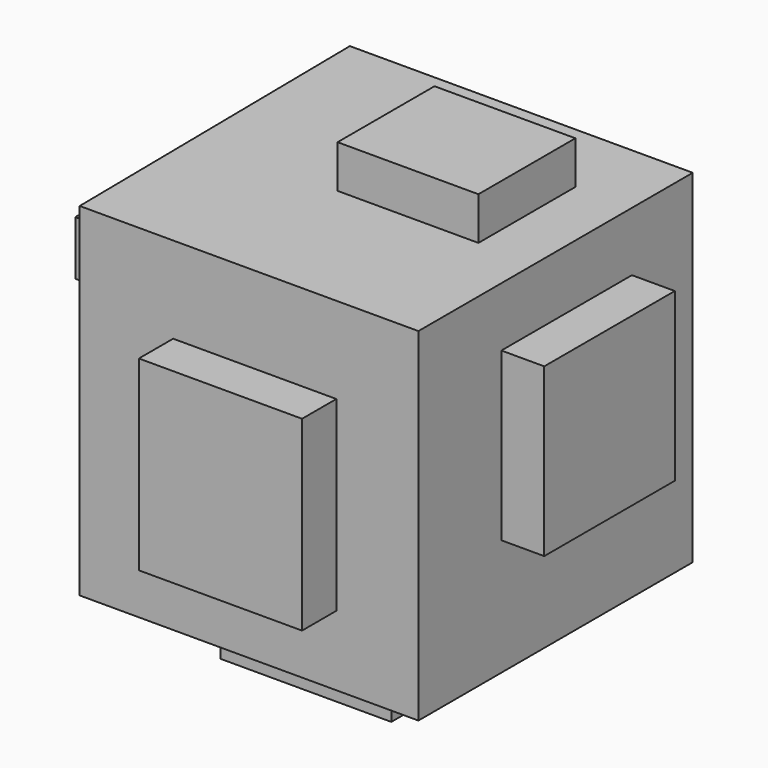
from build123d import *

# Parameters (mm, degrees)
F1_DEPTH  = 25.4
F4_DEPTH  = 3.175
F5_W      = 6.0439207591
F5_H      = 4.6048928052
F6_DEPTH  = 3.175
F7_W      = 8.0585589167
F7_H      = 7.1951448917
F7_H_2    = 9.2097851448
F8_DEPTH  = 3.175
F9_W      = 12.0878436137
F9_H      = 5.468309857
F10_DEPTH = 3.175
F11_W     = 5.6126299314
F11_H     = 4.0292795748
F11_W_2   = 1.726959832
F12_DEPTH = 3.175
F13_W     = 12.3756490648
F13_H     = 7.7707557939
F14_DEPTH = 3.175
F15_W     = 10.4352370836
F15_H     = 8.9767808095
F16_DEPTH = 3.175
F17_DEPTH = 3.175
F18_DEPTH = 3.175
F19_DEPTH = 3.175
F20_DEPTH = 3.175
F21_DEPTH = 3.175


with BuildPart() as f1:
    # F0 (on Top) → F1 (new body)
    with BuildSketch(Plane.XY):
        Polygon((9.2463303961, 5.6304850562), (-16.1536696039, 5.6304850562), (-15.8439135919, -19.7695149438), (9.2463303961, -19.7695149438), align=None)
    extrude(amount=F1_DEPTH)

    # F2 (on face) → F4 (cut)
    with BuildSketch(Plane.XY.offset(25.4)):
        Polygon((-5.1805032417, 0), (-5.1805032417, -8.63417238), (4.8926984891, -8.9219780639), (4.8926984891, 0), align=None)
    extrude(amount=-F4_DEPTH, mode=Mode.SUBTRACT)

    # F5 (on face) → F6 (cut)
    with BuildSketch(Plane.YZ.offset(9.2463303961)):
        with Locations((-9.0658811387, 18.7073750421)):
            Rectangle(F5_W, F5_H)
        Polygon((-6.0439207591, 16.4049286395), (-12.0878415182, 16.4049286395), (-12.0878415182, 8.63417238), (0, 8.63417238), (0, 16.4049286395), align=None)
        with Locations((-3.0219603796, 18.7073750421)):
            Rectangle(F5_W, F5_H)
    extrude(amount=-F6_DEPTH, mode=Mode.SUBTRACT)

    # F7 (on face) → F8 (cut)
    with BuildSketch(Plane(origin=(0, 5.6304850562, 0), x_dir=(-1, 0, 0), z_dir=(0, 1, 0))):
        with Locations((7.7707554447, 19.4268897176)):
            Rectangle(F7_W, F7_H)
        with Locations((7.7707554447, 11.2244246993)):
            Rectangle(F7_W, F7_H_2)
    extrude(amount=-F8_DEPTH, mode=Mode.SUBTRACT)

    # F9 (on face) → F10 (cut)
    with BuildSketch(Plane.XZ.offset(19.7695149438)):
        with Locations((-2.8780571884, 16.2610257976)):
            Rectangle(F9_W, F9_H)
        Polygon((3.1658646185, 13.5268708691), (-8.9219789952, 13.5268708691), (-8.9219789952, 5.1805032417), (-7.1951430291, 5.1805032417), (3.1658646185, 5.1805032417), align=None)
    extrude(amount=-F10_DEPTH, mode=Mode.SUBTRACT)

    # F11 (on face) → F12 (cut)
    with BuildSketch(Plane(origin=(-16.08261335, -0.1961293769, 0), x_dir=(0.0121942118, -0.9999256478, 0), z_dir=(-0.9999256478, -0.0121942118, 0))):
        Polygon((2.9699560255, 18.131762743), (2.9699560255, 11.8000358343), (14.1952158883, 10.9366187826), (14.1952158883, 18.131762743), (8.5825859569, 18.131762743), align=None)
        with Locations((5.7762709912, 20.1464025304)):
            Rectangle(F11_W, F11_H)
        with Locations((11.3889009226, 20.1464025304)):
            Rectangle(F11_W, F11_H)
        with Locations((15.0586958043, 20.1464025304)):
            Rectangle(F11_W_2, F11_H)
    extrude(amount=-F12_DEPTH, mode=Mode.SUBTRACT)

    # F13 (on face) → F14 (cut)
    with BuildSketch(Plane(origin=(0, 0, 0), x_dir=(1, 0, 0), z_dir=(0, 0, -1))):
        Polygon((-8.3463676274, 16.1171220243), (-8.3463676274, 7.7707557939), (4.0292814374, 7.7707557939), (4.3170871213, 7.7707557939), (4.3170871213, 16.1171220243), align=None)
        with Locations((-2.158543095, 3.8853778969)):
            Rectangle(F13_W, F13_H)
    extrude(amount=-F14_DEPTH, mode=Mode.SUBTRACT)


with BuildPart() as f16:
    # F15 (on face) → F16 (new body)
    with BuildSketch(Plane.XY.offset(25.4)):
        with Locations((-0.1602803823, -4.4883904047)):
            Rectangle(F15_W, F15_H)
    extrude(amount=F16_DEPTH)


with BuildPart() as f17:
    # F5 (on face) → F17 (new body)
    with BuildSketch(Plane.YZ.offset(9.2463303961)):
        with Locations((-9.0658811387, 18.7073750421)):
            Rectangle(F5_W, F5_H)
        Polygon((-6.0439207591, 16.4049286395), (-12.0878415182, 16.4049286395), (-12.0878415182, 8.63417238), (0, 8.63417238), (0, 16.4049286395), align=None)
        with Locations((-3.0219603796, 18.7073750421)):
            Rectangle(F5_W, F5_H)
    extrude(amount=F17_DEPTH)


with BuildPart() as f18:
    # F7 (on face) → F18 (new body)
    with BuildSketch(Plane(origin=(0, 5.6304850562, 0), x_dir=(-1, 0, 0), z_dir=(0, 1, 0))):
        with Locations((7.7707554447, 19.4268897176)):
            Rectangle(F7_W, F7_H)
        with Locations((7.7707554447, 11.2244246993)):
            Rectangle(F7_W, F7_H_2)
    extrude(amount=F18_DEPTH)


with BuildPart() as f19:
    # F11 (on face) → F19 (new body)
    with BuildSketch(Plane(origin=(-16.08261335, -0.1961293769, 0), x_dir=(0.0121942118, -0.9999256478, 0), z_dir=(-0.9999256478, -0.0121942118, 0))):
        Polygon((2.9699560255, 18.131762743), (2.9699560255, 11.8000358343), (14.1952158883, 10.9366187826), (14.1952158883, 18.131762743), (8.5825859569, 18.131762743), align=None)
        with Locations((5.7762709912, 20.1464025304)):
            Rectangle(F11_W, F11_H)
        with Locations((11.3889009226, 20.1464025304)):
            Rectangle(F11_W, F11_H)
        with Locations((15.0586958043, 20.1464025304)):
            Rectangle(F11_W_2, F11_H)
    extrude(amount=F19_DEPTH)


with BuildPart() as f20:
    # F9 (on face) → F20 (new body)
    with BuildSketch(Plane.XZ.offset(19.7695149438)):
        with Locations((-2.8780571884, 16.2610257976)):
            Rectangle(F9_W, F9_H)
        Polygon((3.1658646185, 13.5268708691), (-8.9219789952, 13.5268708691), (-8.9219789952, 5.1805032417), (-7.1951430291, 5.1805032417), (3.1658646185, 5.1805032417), align=None)
    extrude(amount=F20_DEPTH)


with BuildPart() as f21:
    # F13 (on face) → F21 (new body)
    with BuildSketch(Plane(origin=(0, 0, 0), x_dir=(1, 0, 0), z_dir=(0, 0, -1))):
        Polygon((-8.3463676274, 16.1171220243), (-8.3463676274, 7.7707557939), (4.0292814374, 7.7707557939), (4.3170871213, 7.7707557939), (4.3170871213, 16.1171220243), align=None)
        with Locations((-2.158543095, 3.8853778969)):
            Rectangle(F13_W, F13_H)
    extrude(amount=F21_DEPTH)


solid = Compound([f1.part, f16.part, f17.part, f18.part, f19.part, f20.part, f21.part])
